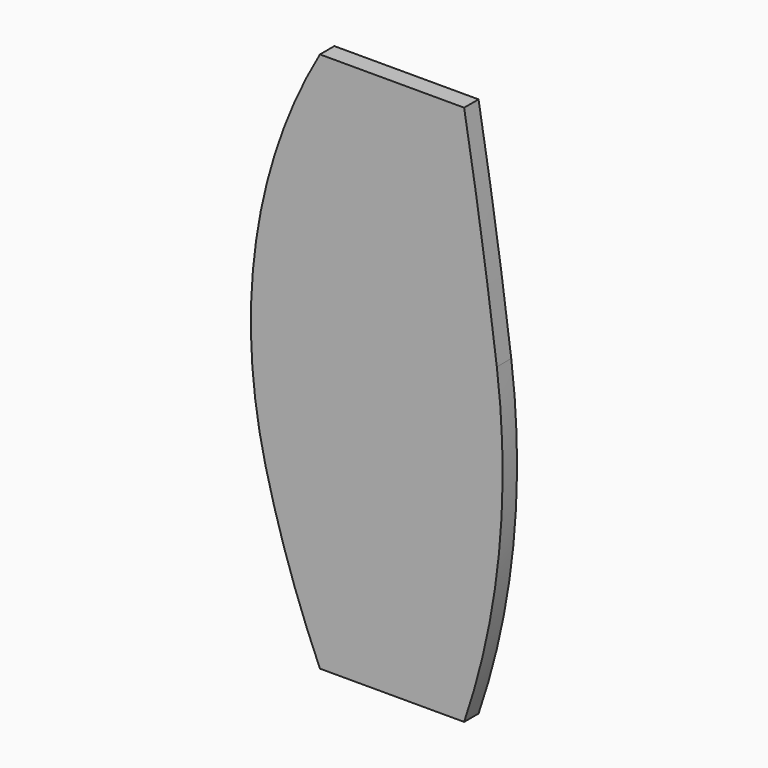
from build123d import *

# Parameters (mm, degrees)
F2_DEPTH = 100


with BuildPart() as f2:
    # F1 (on Front) → F2 (new body)
    with BuildSketch(Plane.XZ):
        with BuildLine():
            ThreePointArc((-701.5959593986, -492.8048068177), (-570.1100061445, -945.3563029663), (-400, -1384.849190712))
            Line((-400, -1384.849190712), (400, -1384.849190712))
            ThreePointArc((400, -1384.849190712), (593.3689666076, -498.6238592129), (581.3922700849, 408.3730835481))
            ThreePointArc((581.3922700849, 408.3730835481), (497.3260903136, 1012.7585032914), (400, 1615.150809288))
            Line((400, 1615.150809288), (-400, 1615.150809288))
            ThreePointArc((-400, 1615.150809288), (-754.3722985404, 590.2994171477), (-701.5959593986, -492.8048068177))
        make_face()
    extrude(amount=F2_DEPTH)


solid = f2.part
